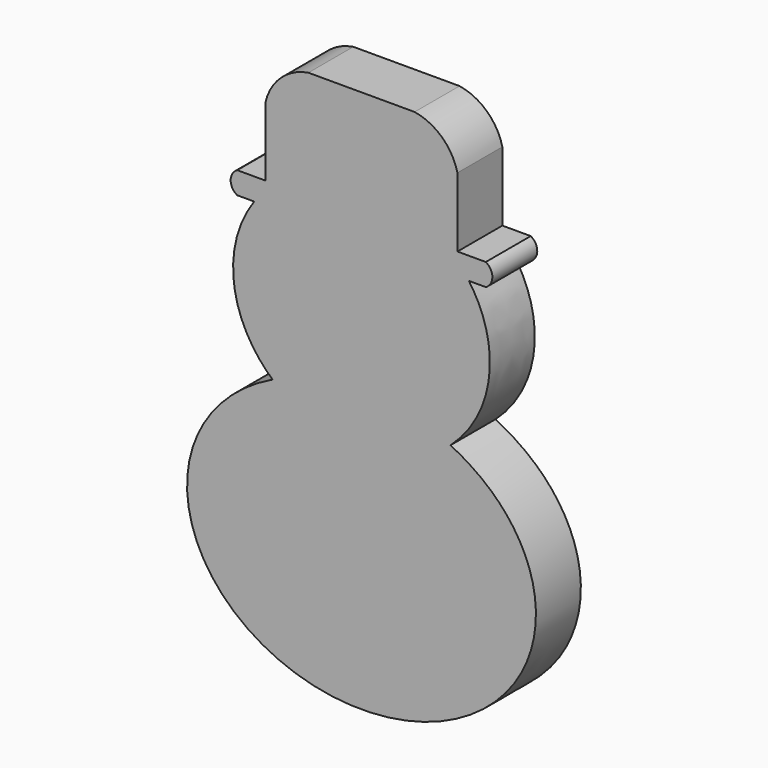
from build123d import *

# Parameters (mm, degrees)
F1_DEPTH = 6.35


with BuildPart() as f1:
    # F0 (on Front) → F1 (new body)
    with BuildSketch(Plane.XZ):
        with BuildLine():
            add(Edge.make_bspline(
                [(-12.139418245, 47.1329423471), (-18.7531081492, 37.8102192035), (-10.0580494758, 30.0859272534)],
                knots=[2.560985734, 2.560985734, 2.560985734, 3.9470646787, 3.9470646787, 3.9470646787], degree=2, weights=[1, 0.7693077183, 1]))
            add(Edge.make_bspline(
                [(-10.0580494758, 30.0859272534), (-71.9696320583, 0.5172969751), (0, 0.5172969751)],
                knots=[2.1058408604, 2.1058408604, 2.1058408604, 4.7123889804, 4.7123889804, 4.7123889804], degree=2, weights=[1, 0.2643426533, 1]))
            add(Edge.make_bspline(
                [(0, 0.5172969751), (71.9696320583, 0.5172969751), (10.0580494758, 30.0859272534)],
                knots=[1.5707963268, 1.5707963268, 1.5707963268, 4.1773444467, 4.1773444467, 4.1773444467], degree=2, weights=[1, 0.2643426533, 1]))
            add(Edge.make_bspline(
                [(10.0580494758, 30.0859272534), (18.7531081492, 37.8102192035), (12.139418245, 47.1329423471)],
                knots=[2.3361206285, 2.3361206285, 2.3361206285, 3.7221995732, 3.7221995732, 3.7221995732], degree=2, weights=[1, 0.7693077183, 1]))
            Line((12.139418245, 47.1329423471), (14.0550736764, 47.1329423471))
            ThreePointArc((14.0550736764, 47.1329423471), (14.7957241581, 48.3821963362), (14.0550736764, 49.6314503253))
            Line((14.0550736764, 49.6314503253), (10.8494823799, 49.6314503253))
            Line((10.8494823799, 49.6314503253), (10.8494823799, 57.4709251523))
            ThreePointArc((10.8494823799, 57.4709251523), (9.1039069514, 60.4416210171), (6.0065505095, 61.9510747492))
            Line((6.0065505095, 61.9510747492), (0, 61.9510747492))
            Line((0, 61.9510747492), (-6.0065505095, 61.9510747492))
            ThreePointArc((-6.0065505095, 61.9510747492), (-9.1039069514, 60.4416210171), (-10.8494823799, 57.4709251523))
            Line((-10.8494823799, 57.4709251523), (-10.8494823799, 49.6314503253))
            Line((-10.8494823799, 49.6314503253), (-14.0550736764, 49.6314503253))
            ThreePointArc((-14.0550736764, 49.6314503253), (-14.7957241581, 48.3821963362), (-14.0550736764, 47.1329423471))
            Line((-14.0550736764, 47.1329423471), (-12.139418245, 47.1329423471))
        make_face()
    extrude(amount=F1_DEPTH)


solid = f1.part
